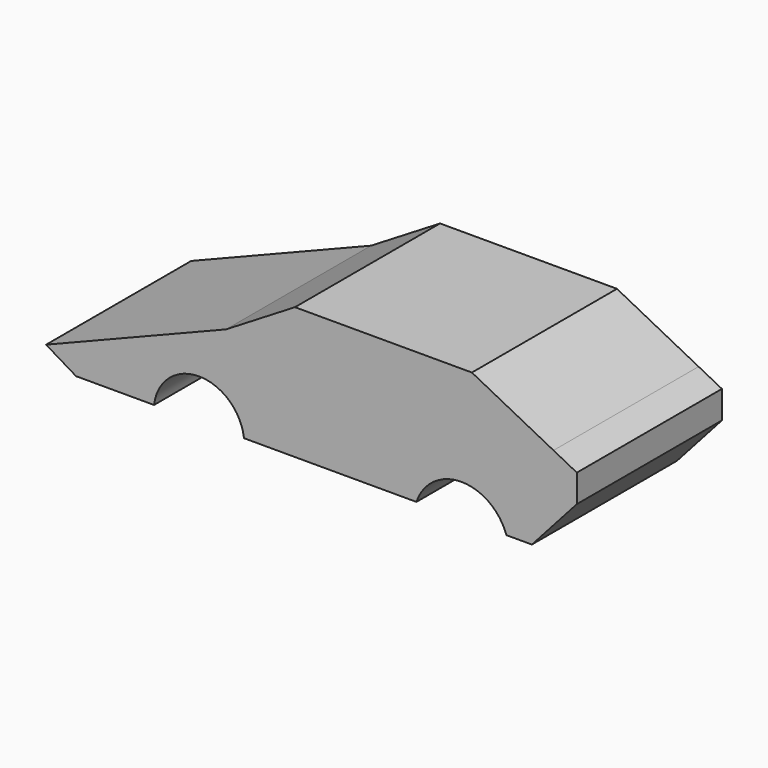
from build123d import *

# Parameters (mm, degrees)
F1_DEPTH = 50.8


with BuildPart() as f1:
    # F0 (on Front) → F1 (new body)
    with BuildSketch(Plane.XZ):
        with BuildLine():
            Line((-128.940001, -9.03), (-120.54, -14.07))
            Line((-120.54, -14.07), (-98.700002, -14.07))
            ThreePointArc((-98.700002, -14.07), (-91.116523, -3.930836), (-78.540005, -5.394729))
            Line((-78.540005, -5.394729), (-78.540005, 11.130001))
            Line((-78.540005, 11.130001), (-128.940001, -9.03))
        make_face()
        with BuildLine():
            Line((-78.540005, 11.130001), (-78.540005, -5.394729))
            ThreePointArc((-78.540005, -5.394729), (-75.12633, -9.213174), (-73.5, -14.07))
            Line((-73.5, -14.07), (-34.44, -14.07))
            Line((-34.44, -14.07), (-34.44, 11.130001))
            Line((-34.44, 11.130001), (-78.540005, 11.130001))
        make_face()
        Polygon((-59.220001, 22.89), (-78.540005, 11.130001), (-34.44, 11.130001), (-6.562005, 11.130001), (13.203657, 11.130001), (-9.659999, 22.89), align=None)
        with BuildLine():
            Line((-6.562005, 11.130001), (-34.44, 11.130001))
            Line((-34.44, 11.130001), (-34.44, -14.07))
            Line((-34.44, -14.07), (-25.1968, -14.07))
            ThreePointArc((-25.1968, -14.07), (-17.621716, -5.998406), (-6.562005, -6.462444))
            Line((-6.562005, -6.462444), (-6.562005, 11.130001))
        make_face()
        with BuildLine():
            Line((13.203657, 11.130001), (-6.562005, 11.130001))
            Line((-6.562005, 11.130001), (-6.562005, -6.462444))
            ThreePointArc((-6.562005, -6.462444), (-2.534474, -9.622293), (0, -14.07))
            Line((0, -14.07), (7.139999, -14.07))
            Line((7.139999, -14.07), (19.737999, 0))
            Line((19.737999, 0), (19.737999, 7.769039))
            Line((19.737999, 7.769039), (13.203657, 11.130001))
        make_face()
    extrude(amount=F1_DEPTH)


solid = f1.part
